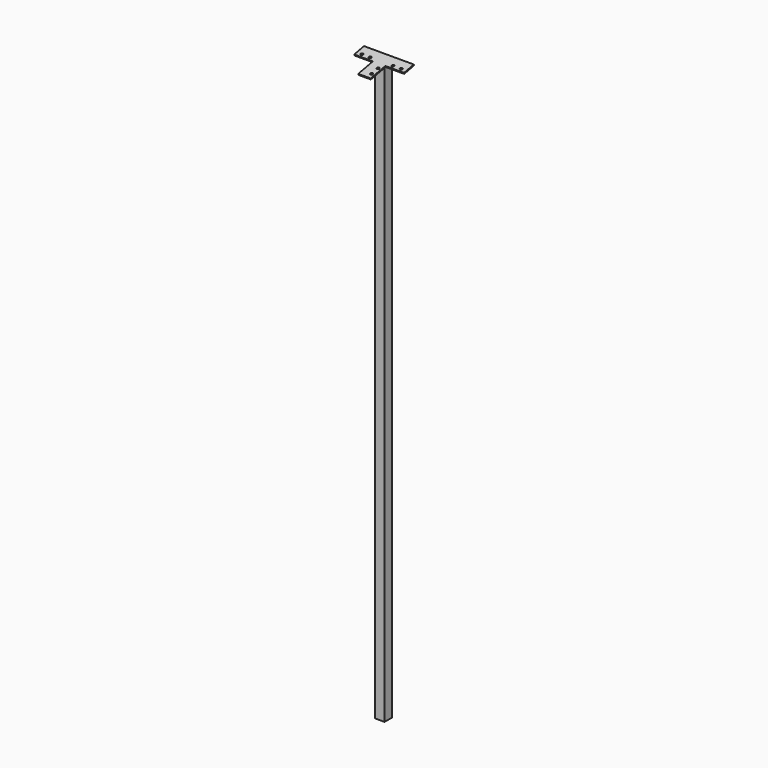
from build123d import *

# Parameters (mm, degrees)
F0_W      = 45
F0_H      = 45
F1_DEPTH  = 3330
F6_W      = 45
F6_H      = 45.842251273
F7_DEPTH  = 25
F8_W      = 60
F8_H      = 60
F8_W_2    = 90
F8_H_2    = 90
F9_DEPTH  = 5
F10_R     = 6
F11_DEPTH = 25
F12_W     = 150
F12_H     = 4.7702248844
F13_DEPTH = 3358.6871623993
F15_DEPTH = 111
F16_W     = 45
F16_H     = 45
F17_DEPTH = 534


with BuildPart() as f1:
    # F0 (on Top) → F1 (new body)
    with BuildSketch(Plane.XY):
        Rectangle(F0_W, F0_H)
    extrude(amount=F1_DEPTH)

    # F6 (on face) → F7 (join)
    with BuildSketch(Plane(origin=(0, -624.5391596736, 3212.9754420296), x_dir=(1, 0, 0), z_dir=(0, 0.1908089954, -0.9816271834))):
        with Locations((0, -636.2284686128)):
            Rectangle(F6_W, F6_H)
    extrude(amount=F7_DEPTH)

    # F8 (on face) → F9 (join)
    with BuildSketch(Plane(origin=(0, -624.5391596736, 3212.9754420296), x_dir=(1, 0, 0), z_dir=(0, 0.1908089954, -0.9816271834))):
        with Locations((7.5, -629.1495942493)):
            Rectangle(F8_W, F8_H)
        with Locations((-67.5, -629.1495942493)):
            Rectangle(F8_W_2, F8_H)
        with Locations((82.5, -629.1495942493)):
            Rectangle(F8_W_2, F8_H)
        with Locations((7.5, -554.1495942493)):
            Rectangle(F8_W, F8_H_2)
    extrude(amount=F9_DEPTH)

    # F10 (on face) → F11 (cut)
    with BuildSketch(Plane(origin=(0, -624.5391596736, 3212.9754420296), x_dir=(1, 0, 0), z_dir=(0, -0.1908089954, 0.9816271834))):
        with BuildLine():
            ThreePointArc((22.5, 540.1495942493), (18.2573593129, 529.9069535622), (28.5, 534.1495942493))
            Line((28.5, 534.1495942493), (22.5, 534.1495942493))
            Line((22.5, 534.1495942493), (22.5, 540.1495942493))
        make_face()
        with BuildLine():
            Line((22.5, 534.1495942493), (28.5, 534.1495942493))
            ThreePointArc((28.5, 534.1495942493), (26.7426406871, 538.3922349364), (22.5, 540.1495942493))
            Line((22.5, 540.1495942493), (22.5, 534.1495942493))
        make_face()
        with BuildLine():
            ThreePointArc((28.5, 574.1495942493), (18.2573593129, 578.3922349364), (22.5, 568.1495942493))
            ThreePointArc((22.5, 568.1495942493), (26.7426406871, 569.9069535622), (28.5, 574.1495942493))
        make_face()
        with BuildLine():
            ThreePointArc((96.5, 614.1495942493), (98.2573593129, 609.9069535622), (102.5, 608.1495942493))
            Line((102.5, 608.1495942493), (102.5, 614.1495942493))
            Line((102.5, 614.1495942493), (96.5, 614.1495942493))
        make_face()
        with Locations((62.5, 614.1495942493)):
            Circle(F10_R)
        with BuildLine():
            Line((102.5, 614.1495942493), (102.5, 608.1495942493))
            ThreePointArc((102.5, 608.1495942493), (106.7426406871, 609.9069535622), (108.5, 614.1495942493))
            ThreePointArc((108.5, 614.1495942493), (102.5, 620.1495942493), (96.5, 614.1495942493))
            Line((96.5, 614.1495942493), (102.5, 614.1495942493))
        make_face()
        with Locations((-47.5, 614.1495942493)):
            Circle(F10_R)
        with Locations((-87.5, 614.1495942493)):
            Circle(F10_R)
    extrude(amount=-F11_DEPTH, mode=Mode.SUBTRACT)

    # F12 (on Top) → F13 (cut)
    with BuildSketch(Plane.XY):
        with Locations((52.5, 24.8851124422)):
            Rectangle(F12_W, F12_H)
    extrude(amount=F13_DEPTH, mode=Mode.SUBTRACT)

    # F14 (on face) → F15 (cut)
    with BuildSketch(Plane.YZ.offset(-22.5)):
        Polygon((22.5, 3333.6535304364), (23.4540449769, 3333.838977994), (22.5, 3338.7471139112), align=None)
    extrude(amount=-F15_DEPTH, mode=Mode.SUBTRACT)

    # F16 (on face) → F17 (cut)
    with BuildSketch(Plane(origin=(0, 0, 0), x_dir=(1, 0, 0), z_dir=(0, 0, -1))):
        Rectangle(F16_W, F16_H)
    extrude(amount=-F17_DEPTH, mode=Mode.SUBTRACT)


solid = f1.part
